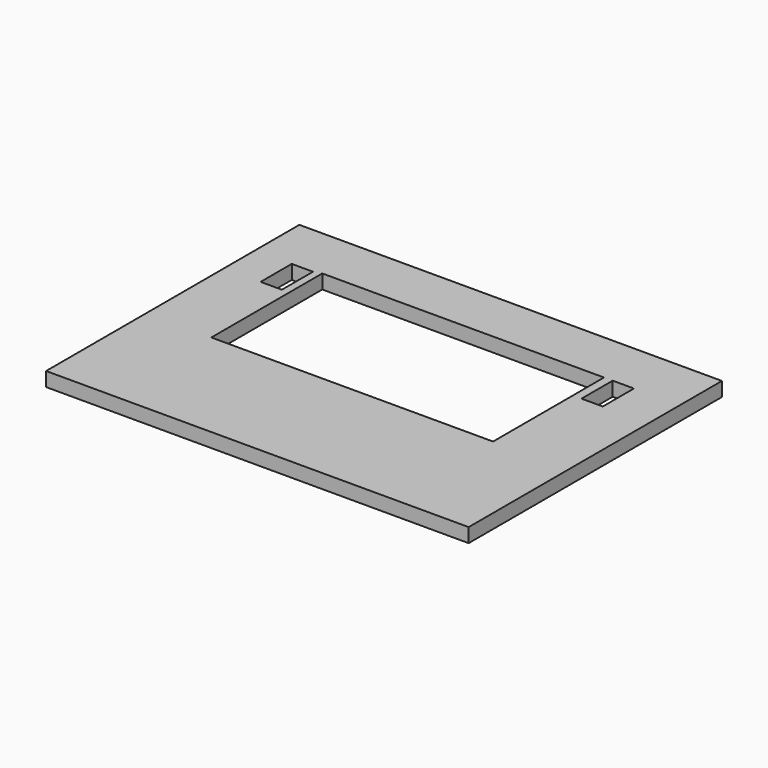
from build123d import *

# Parameters (mm, degrees)
F0_W     = 59.68371
F0_H     = 44.711508
F0_W_2   = 50
F0_H_2   = 25.664362
F0_W_3   = 39.789142
F0_H_3   = 19.586922
F0_W_4   = 3
F0_H_4   = 5.5
F1_DEPTH = 2


with BuildPart() as f1:
    # F0 (on Top) → F1 (new body)
    with BuildSketch(Plane.XY):
        with Locations((0.514649, -4.717808)):
            Rectangle(F0_W, F0_H)
        Rectangle(F0_W_2, F0_H_2, mode=Mode.SUBTRACT)
        Rectangle(F0_W_2, F0_H_2)
        with Locations((-0.203197, 0.358383)):
            Rectangle(F0_W_3, F0_H_3, mode=Mode.SUBTRACT)
        with Locations((-22.652147, 7.080561)):
            Rectangle(F0_W_4, F0_H_4, mode=Mode.SUBTRACT)
        with Locations((22.410813, 7.41029)):
            Rectangle(F0_W_4, F0_H_4, mode=Mode.SUBTRACT)
    extrude(amount=-F1_DEPTH)


solid = f1.part
